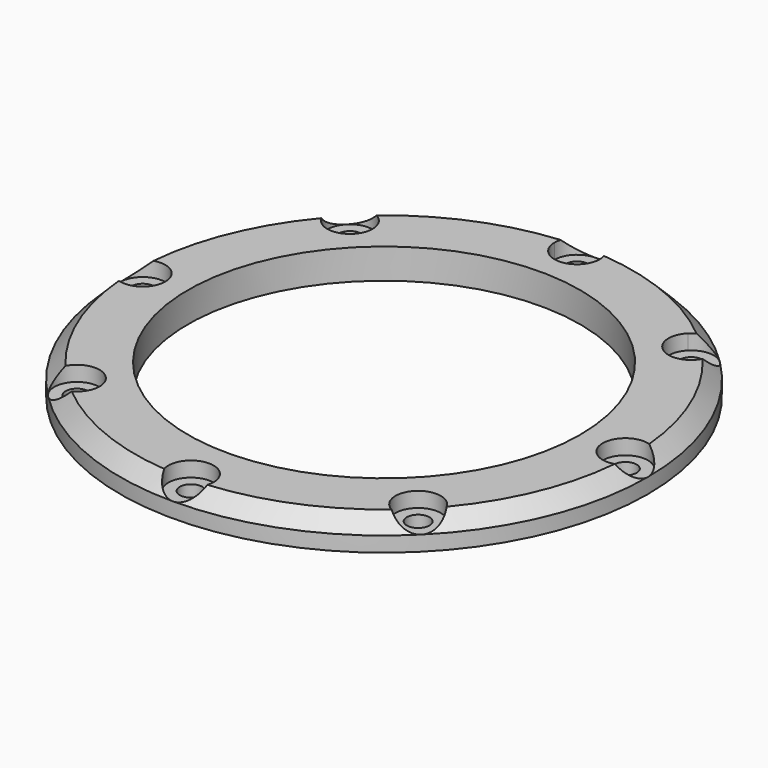
from build123d import *

# Parameters (mm, degrees)
CYLINDER1760_R               = 3
CYLINDER1760_DEPTH           = 3
CYLINDER1760_PLACEMENT_ANGLE = 45
CYLINDER1761_R               = 3
CYLINDER1761_DEPTH           = 3
CYLINDER1762_R               = 3
CYLINDER1762_DEPTH           = 3
CYLINDER1762_PLACEMENT_ANGLE = 135
CYLINDER1758_R               = 3
CYLINDER1758_DEPTH           = 3
CYLINDER1756_R               = 3
CYLINDER1756_DEPTH           = 3
CYLINDER1756_PLACEMENT_ANGLE = 225
CYLINDER1759_R               = 3
CYLINDER1759_DEPTH           = 3
CYLINDER1757_R               = 3
CYLINDER1757_DEPTH           = 3
CYLINDER1757_PLACEMENT_ANGLE = 45
CYLINDER1763_R               = 3
CYLINDER1763_DEPTH           = 3
CYLINDER1741_R               = 1.5
CYLINDER1741_DEPTH           = 30
CYLINDER1741_PLACEMENT_ANGLE = 45
CYLINDER1742_R               = 1.5
CYLINDER1742_DEPTH           = 30
CYLINDER1743_R               = 1.5
CYLINDER1743_DEPTH           = 30
CYLINDER1743_PLACEMENT_ANGLE = 135
CYLINDER1744_R               = 1.5
CYLINDER1744_DEPTH           = 30
CYLINDER1745_R               = 1.5
CYLINDER1745_DEPTH           = 30
CYLINDER1745_PLACEMENT_ANGLE = 225
CYLINDER1746_R               = 1.5
CYLINDER1746_DEPTH           = 30
CYLINDER1747_R               = 1.5
CYLINDER1747_DEPTH           = 30
CYLINDER1747_PLACEMENT_ANGLE = 45
CYLINDER1740_R               = 1.5
CYLINDER1740_DEPTH           = 30
TUBE090_R                    = 35
TUBE090_R_2                  = 26
TUBE090_DEPTH                = 4
CHAMFER062_SIZE              = 2


with BuildPart() as obj1:
    # Cylinder1760 → Cylinder1760 (new body)
    with BuildSketch(Plane.XY):
        Circle(CYLINDER1760_R)
    extrude(amount=CYLINDER1760_DEPTH)


with BuildPart() as obj1_1:
    # Cylinder1760 placement: moved
    add(obj1.part.moved(Location((22.627417, -22.627417, 0))).rotate(Axis((22.627417, -22.627417, 0), (0, 0, 1)), CYLINDER1760_PLACEMENT_ANGLE))


with BuildPart() as obj2:
    # Cylinder1761 → Cylinder1761 (new body)
    with BuildSketch(Plane(origin=(32, 0, 0), x_dir=(0, 1, 0), z_dir=(0, 0, 1))):
        Circle(CYLINDER1761_R)
    extrude(amount=CYLINDER1761_DEPTH)


with BuildPart() as obj3:
    # Cylinder1762 → Cylinder1762 (new body)
    with BuildSketch(Plane.XY):
        Circle(CYLINDER1762_R)
    extrude(amount=CYLINDER1762_DEPTH)


with BuildPart() as obj3_1:
    # Cylinder1762 placement: moved
    add(obj3.part.moved(Location((22.627417, 22.627417, 0))).rotate(Axis((22.627417, 22.627417, 0), (0, 0, 1)), CYLINDER1762_PLACEMENT_ANGLE))


with BuildPart() as obj4:
    # Cylinder1758 → Cylinder1758 (new body)
    with BuildSketch(Plane(origin=(0, 32, 0), x_dir=(-1, 0, 0), z_dir=(0, 0, 1))):
        Circle(CYLINDER1758_R)
    extrude(amount=CYLINDER1758_DEPTH)


with BuildPart() as obj5:
    # Cylinder1756 → Cylinder1756 (new body)
    with BuildSketch(Plane.XY):
        Circle(CYLINDER1756_R)
    extrude(amount=CYLINDER1756_DEPTH)


with BuildPart() as obj5_1:
    # Cylinder1756 placement: moved
    add(obj5.part.moved(Location((-22.627417, 22.627417, 0))).rotate(Axis((-22.627417, 22.627417, 0), (0, 0, 1)), CYLINDER1756_PLACEMENT_ANGLE))


with BuildPart() as obj6:
    # Cylinder1759 → Cylinder1759 (new body)
    with BuildSketch(Plane(origin=(-32, 0, 0), x_dir=(0, -1, 0), z_dir=(0, 0, 1))):
        Circle(CYLINDER1759_R)
    extrude(amount=CYLINDER1759_DEPTH)


with BuildPart() as obj7:
    # Cylinder1757 → Cylinder1757 (new body)
    with BuildSketch(Plane.XY):
        Circle(CYLINDER1757_R)
    extrude(amount=CYLINDER1757_DEPTH)


with BuildPart() as obj7_1:
    # Cylinder1757 placement: moved
    add(obj7.part.moved(Location((-22.627417, -22.627417, 0))).rotate(Axis((-22.627417, -22.627417, 0), (0, 0, -1)), CYLINDER1757_PLACEMENT_ANGLE))


with BuildPart() as compound880:
    # Cylinder1763 → Cylinder1763 (new body)
    with BuildSketch(Plane(origin=(0, -32, 0), x_dir=(1, 0, 0), z_dir=(0, 0, 1))):
        Circle(CYLINDER1763_R)
    extrude(amount=CYLINDER1763_DEPTH)

    # Compound880: union obj1, obj2, obj3, obj4, obj5, obj6, obj7
    add(obj1_1.part)
    add(obj2.part)
    add(obj3_1.part)
    add(obj4.part)
    add(obj5_1.part)
    add(obj6.part)
    add(obj7_1.part)


with BuildPart() as compound880_1:
    # Compound880 placement: moved
    add(compound880.part.moved(Location((0, 0, 27))))


with BuildPart() as obj8:
    # Cylinder1741 → Cylinder1741 (new body)
    with BuildSketch(Plane.XY):
        Circle(CYLINDER1741_R)
    extrude(amount=CYLINDER1741_DEPTH)


with BuildPart() as obj8_1:
    # Cylinder1741 placement: moved
    add(obj8.part.moved(Location((22.627417, -22.627417, 0))).rotate(Axis((22.627417, -22.627417, 0), (0, 0, 1)), CYLINDER1741_PLACEMENT_ANGLE))


with BuildPart() as obj9:
    # Cylinder1742 → Cylinder1742 (new body)
    with BuildSketch(Plane(origin=(32, 0, 0), x_dir=(0, 1, 0), z_dir=(0, 0, 1))):
        Circle(CYLINDER1742_R)
    extrude(amount=CYLINDER1742_DEPTH)


with BuildPart() as obj10:
    # Cylinder1743 → Cylinder1743 (new body)
    with BuildSketch(Plane.XY):
        Circle(CYLINDER1743_R)
    extrude(amount=CYLINDER1743_DEPTH)


with BuildPart() as obj10_1:
    # Cylinder1743 placement: moved
    add(obj10.part.moved(Location((22.627417, 22.627417, 0))).rotate(Axis((22.627417, 22.627417, 0), (0, 0, 1)), CYLINDER1743_PLACEMENT_ANGLE))


with BuildPart() as obj11:
    # Cylinder1744 → Cylinder1744 (new body)
    with BuildSketch(Plane(origin=(0, 32, 0), x_dir=(-1, 0, 0), z_dir=(0, 0, 1))):
        Circle(CYLINDER1744_R)
    extrude(amount=CYLINDER1744_DEPTH)


with BuildPart() as obj12:
    # Cylinder1745 → Cylinder1745 (new body)
    with BuildSketch(Plane.XY):
        Circle(CYLINDER1745_R)
    extrude(amount=CYLINDER1745_DEPTH)


with BuildPart() as obj12_1:
    # Cylinder1745 placement: moved
    add(obj12.part.moved(Location((-22.627417, 22.627417, 0))).rotate(Axis((-22.627417, 22.627417, 0), (0, 0, 1)), CYLINDER1745_PLACEMENT_ANGLE))


with BuildPart() as obj13:
    # Cylinder1746 → Cylinder1746 (new body)
    with BuildSketch(Plane(origin=(-32, 0, 0), x_dir=(0, -1, 0), z_dir=(0, 0, 1))):
        Circle(CYLINDER1746_R)
    extrude(amount=CYLINDER1746_DEPTH)


with BuildPart() as obj14:
    # Cylinder1747 → Cylinder1747 (new body)
    with BuildSketch(Plane.XY):
        Circle(CYLINDER1747_R)
    extrude(amount=CYLINDER1747_DEPTH)


with BuildPart() as obj14_1:
    # Cylinder1747 placement: moved
    add(obj14.part.moved(Location((-22.627417, -22.627417, 0))).rotate(Axis((-22.627417, -22.627417, 0), (0, 0, -1)), CYLINDER1747_PLACEMENT_ANGLE))


with BuildPart() as compound877:
    # Cylinder1740 → Cylinder1740 (new body)
    with BuildSketch(Plane(origin=(0, -32, 0), x_dir=(1, 0, 0), z_dir=(0, 0, 1))):
        Circle(CYLINDER1740_R)
    extrude(amount=CYLINDER1740_DEPTH)

    # Compound877: union obj8, obj9, obj10, obj11, obj12, obj13, obj14
    add(obj8_1.part)
    add(obj9.part)
    add(obj10_1.part)
    add(obj11.part)
    add(obj12_1.part)
    add(obj13.part)
    add(obj14_1.part)


with BuildPart() as g_midi_bear_fix:
    # Tube090 → Tube090 (new body)
    with BuildSketch(Plane.XY.offset(25)):
        Circle(TUBE090_R)
        Circle(TUBE090_R_2, mode=Mode.SUBTRACT)
    extrude(amount=TUBE090_DEPTH)

    # Chamfer062
    chamfer062_edges = [g_midi_bear_fix.edges().sort_by_distance(p)[0] for p in [
        (-35, 0, 29),
    ]]
    chamfer(chamfer062_edges, length=CHAMFER062_SIZE)

    # Cut522: cut Compound877
    add(compound877.part, mode=Mode.SUBTRACT)

    # Cut523: cut Compound880
    add(compound880_1.part, mode=Mode.SUBTRACT)


with BuildPart() as g_midi_bear_fix_1:
    # Cut523 placement: moved
    add(g_midi_bear_fix.part.moved(Location((0, 0, -1))))


solid = g_midi_bear_fix_1.part
